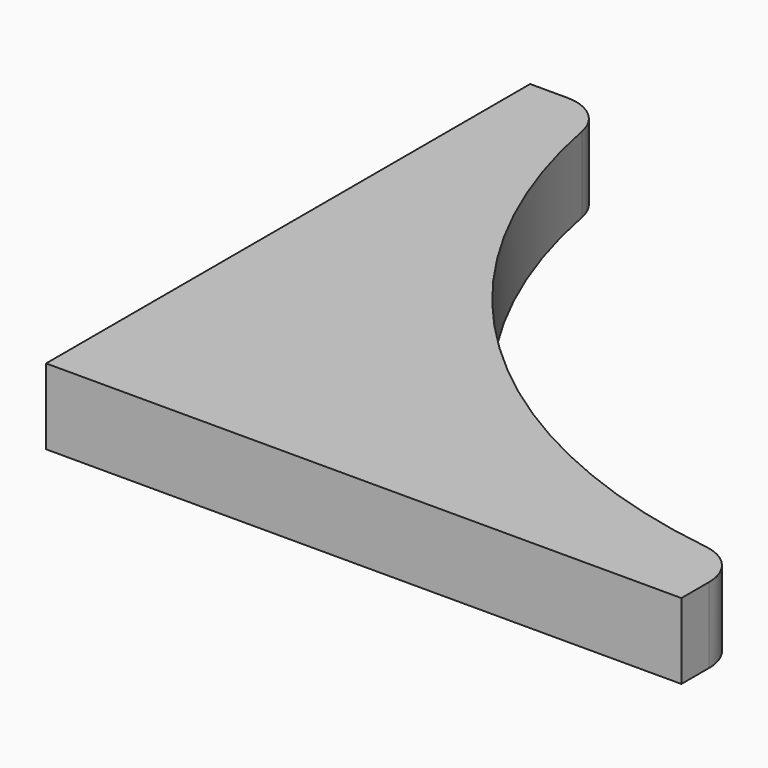
from build123d import *

# Parameters (mm, degrees)
F1_DEPTH = 25


with BuildPart() as f1:
    # F0 (on Top) → F1 (new body)
    with BuildSketch(Plane.XY):
        with BuildLine():
            Line((-160.09872, 248.367966), (-172.318979, 248.367966))
            Line((-172.318979, 248.367966), (-172.318979, 48.367966))
            Line((-172.318979, 48.367966), (37.681021, 48.367966))
            Line((37.681021, 48.367966), (37.681021, 59.875305))
            ThreePointArc((37.681021, 59.875305), (33.991015, 69.728429), (24.736483, 74.733807))
            ThreePointArc((24.736483, 74.733807), (-86.259099, 128.13192), (-145.367485, 236.194754))
            ThreePointArc((-145.367485, 236.194754), (-150.543664, 244.930877), (-160.09872, 248.367966))
        make_face()
    extrude(amount=F1_DEPTH)


solid = f1.part
